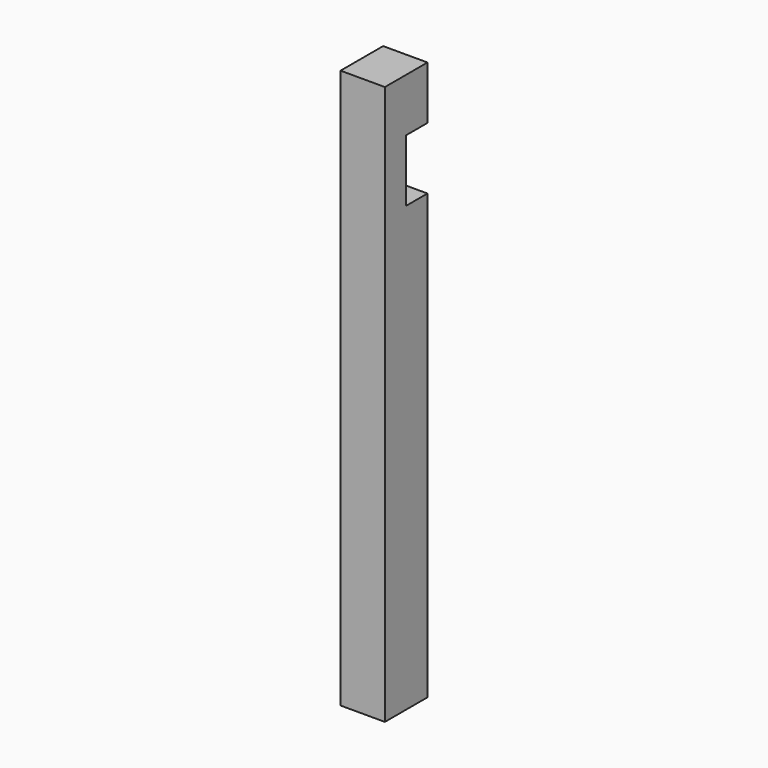
from build123d import *

# Parameters (mm, degrees)
SKETCH006_W      = 50
SKETCH006_H      = 30
EXTRUDE006_DEPTH = 70
SKETCH007_W      = 50
SKETCH007_H      = 60
EXTRUDE007_DEPTH = 60
SKETCH005_W      = 50
SKETCH005_H      = 60
EXTRUDE005_DEPTH = 500


with BuildPart() as obj1:
    # Sketch006 (on Face6 of Extrude005) → Extrude006 (new body)
    with BuildSketch(Plane.XY.offset(630)):
        with Locations((570, 45)):
            Rectangle(SKETCH006_W, SKETCH006_H)
    extrude(amount=EXTRUDE006_DEPTH)


with BuildPart() as obj2:
    # Sketch007 (on Face6 of Extrude006) → Extrude007 (new body)
    with BuildSketch(Plane.XY.offset(700)):
        with Locations((570, 30)):
            Rectangle(SKETCH007_W, SKETCH007_H)
    extrude(amount=EXTRUDE007_DEPTH)


with BuildPart() as fusion:
    # Sketch005 (on Face14 of Extrude004) → Extrude005 (new body)
    with BuildSketch(Plane.XY.offset(130)):
        with Locations((570, 30)):
            Rectangle(SKETCH005_W, SKETCH005_H)
    extrude(amount=EXTRUDE005_DEPTH)

    # Fusion: union obj1, obj2
    add(obj1.part)
    add(obj2.part)


with BuildPart() as fusion_mirrored:
    # mirror: instance of Fusion
    add(fusion.part.mirror(Plane(origin=(1140, 300, 120), x_dir=(1, 0, 0), z_dir=(0, 1, 0))))


solid = fusion_mirrored.part
